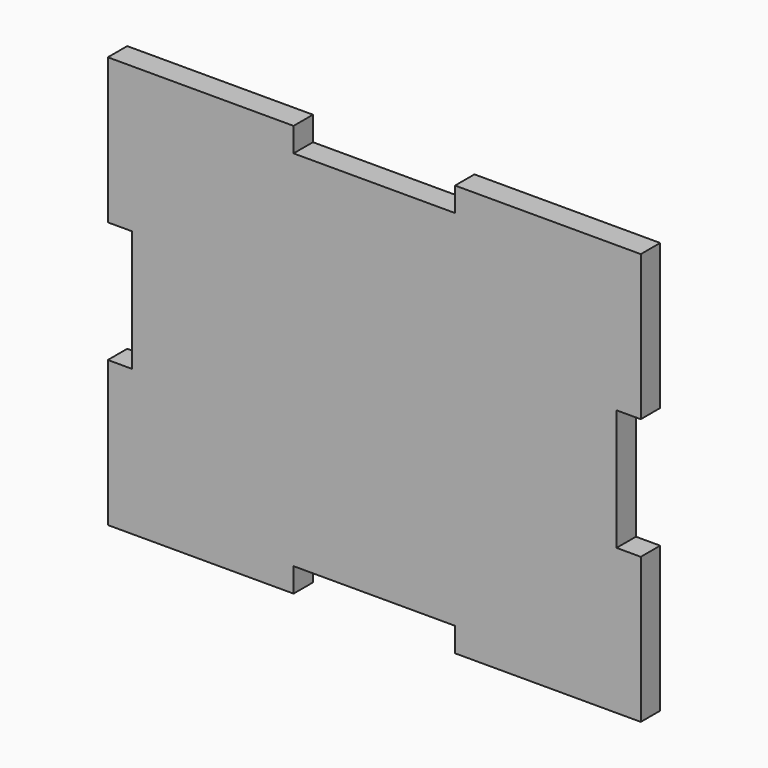
from build123d import *

# Parameters (mm, degrees)
F1_DEPTH = 3


with BuildPart() as f1:
    # F0 (on Front) → F1 (new body)
    with BuildSketch(Plane.XZ):
        Polygon((10, 22.5), (0, 22.5), (-10, 22.5), (-10, 25.5), (-33, 25.5), (-33, 7.5), (-30, 7.5), (-30, 0), (-30, -7.5), (-33, -7.5), (-33, -25.5), (-10, -25.5), (-10, -22.5), (0, -22.5), (10, -22.5), (10, -25.5), (33, -25.5), (33, -7.5), (30, -7.5), (30, 0), (30, 7.5), (33, 7.5), (33, 25.5), (10, 25.5), align=None)
    extrude(amount=F1_DEPTH)


solid = f1.part
